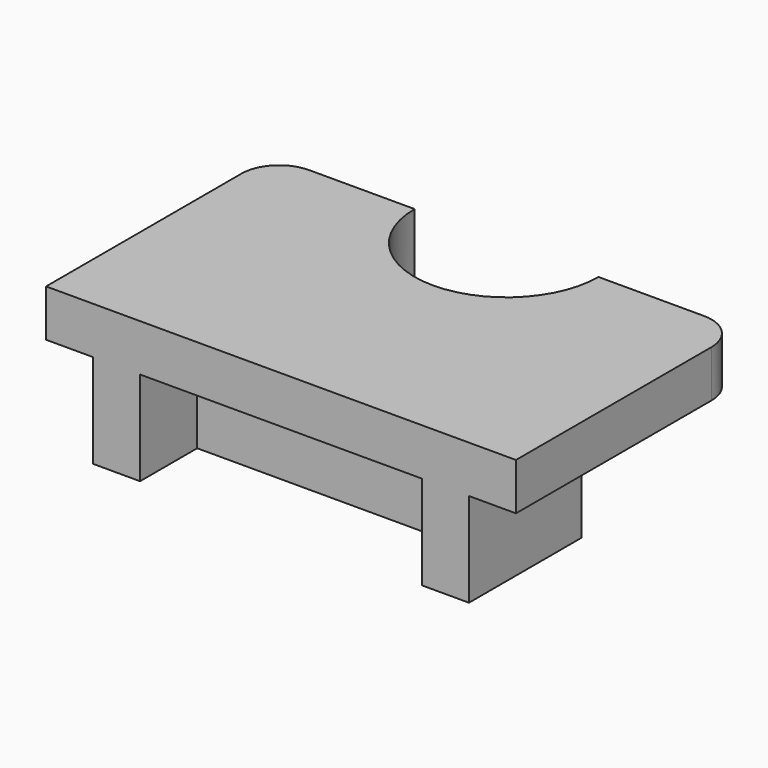
from build123d import *

# Parameters (mm, degrees)
F1_DEPTH = 6.35
F3_DEPTH = 12.7
F4_R     = 5.538906
F5_R     = 5.08


with BuildPart() as f1:
    # F0 (on Top) → F1 (new body)
    with BuildSketch(Plane.XY):
        with BuildLine():
            Line((-12.4206, 19.05), (-31.75, 19.05))
            Line((-31.75, 19.05), (-31.75, -19.05))
            Line((-31.75, -19.05), (31.75, -19.05))
            Line((31.75, -19.05), (31.75, 19.05))
            Line((31.75, 19.05), (12.4206, 19.05))
            ThreePointArc((12.4206, 19.05), (0, 6.6294), (-12.4206, 19.05))
        make_face()
    extrude(amount=F1_DEPTH)

    # F2 (on Top) → F3 (join)
    with BuildSketch(Plane.XY):
        with BuildLine():
            Line((-12.4206, 19.05), (-16.2306, 19.05))
            Line((-16.2306, 19.05), (-16.2306, 0))
            Line((-16.2306, 0), (-25.4, 0))
            Line((-25.4, 0), (-25.4, -19.05))
            Line((-25.4, -19.05), (-19.05, -19.05))
            Line((-19.05, -19.05), (-19.05, -9.398))
            Line((-19.05, -9.398), (19.05, -9.398))
            Line((19.05, -9.398), (19.05, -19.05))
            Line((19.05, -19.05), (25.4, -19.05))
            Line((25.4, -19.05), (25.4, 0))
            Line((25.4, 0), (16.2306, 0))
            Line((16.2306, 0), (16.2306, 19.05))
            Line((16.2306, 19.05), (12.4206, 19.05))
            ThreePointArc((12.4206, 19.05), (0, 6.6294), (-12.4206, 19.05))
        make_face()
    extrude(amount=-F3_DEPTH)

    # F4
    f4_edges = [f1.edges().sort_by_distance(p)[0] for p in [
        (16.2306, 0, -6.35),
        (-16.2306, 0, -6.35),
    ]]
    fillet(f4_edges, radius=F4_R)

    # F5
    f5_edges = [f1.edges().sort_by_distance(p)[0] for p in [
        (31.75, 19.05, 3.175),
        (-31.75, 19.05, 3.175),
    ]]
    fillet(f5_edges, radius=F5_R)


solid = f1.part
